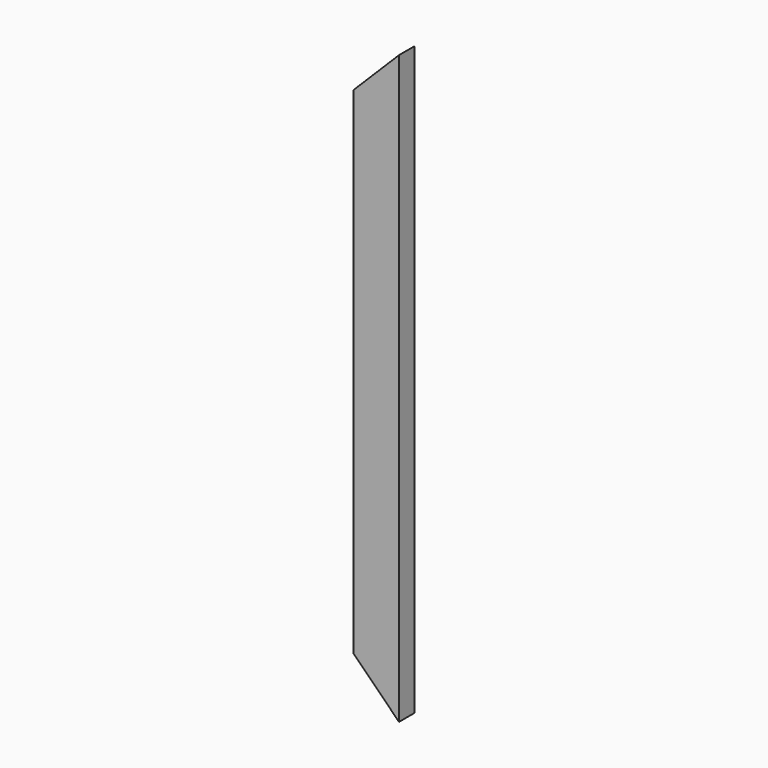
from build123d import *

# Parameters (mm, degrees)
F0_W     = 88.9
F0_H     = 38.1
F1_DEPTH = 571.5
F3_DEPTH = 38.101


with BuildPart() as f1:
    # F0 (on Top) → F1 (new body, symmetric)
    with BuildSketch(Plane.XY):
        Rectangle(F0_W, F0_H)
    extrude(amount=F1_DEPTH, both=True)

    # F2 (on face) → F3 (cut, through all)
    with BuildSketch(Plane(origin=(0, 19.05, 0), x_dir=(-1, 0, 0), z_dir=(0, 1, 0))):
        Polygon((44.45, 571.5), (-44.45, 571.5), (44.45, 482.6), align=None)
        Polygon((44.45, -482.6), (-44.45, -571.5), (44.45, -571.5), align=None)
    extrude(amount=-F3_DEPTH, mode=Mode.SUBTRACT)


solid = f1.part
